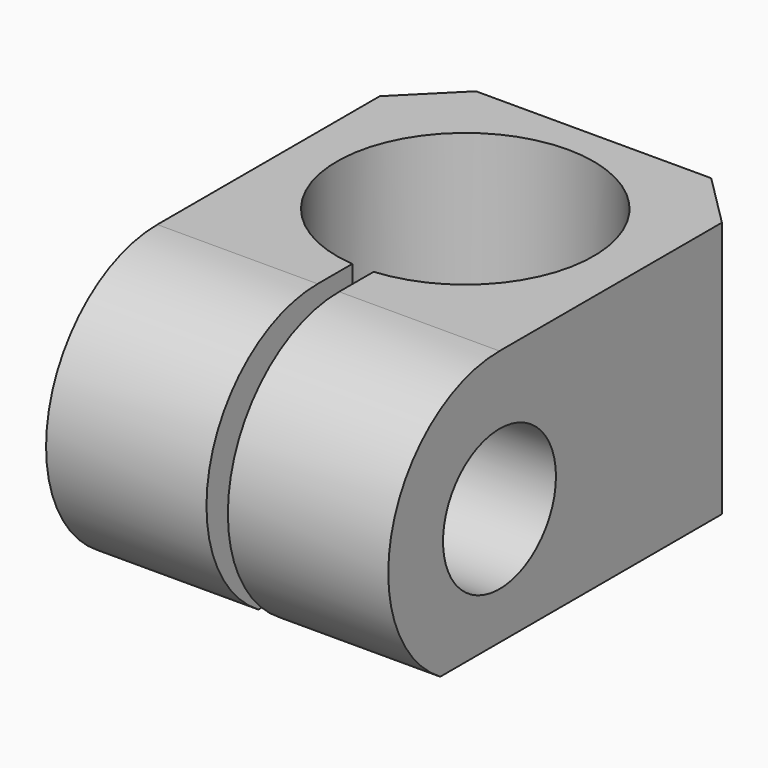
from build123d import *

# Parameters (mm, degrees)
F0_R     = 6.6
F2_DEPTH = 16
F3_R     = 10.5
F3_R_2   = 6.6
F4_DEPTH = 4
F5_DEPTH = 15
F6_SIZE  = 5


with BuildPart() as f2:
    # F0 (on Right) → F2 (new body, symmetric)
    with BuildSketch(Plane.YZ):
        with BuildLine():
            Line((31, 13), (0, 13))
            ThreePointArc((0, 13), (-12.489996, 3.605551), (-6.928203, -11))
            Line((-6.928203, -11), (31, -11))
            Line((31, -11), (31, 13))
        make_face()
        Circle(F0_R, mode=Mode.SUBTRACT)
    extrude(amount=F2_DEPTH, both=True)

    # F3 (on face) → F4 (cut)
    with BuildSketch(Plane(origin=(-16, 0, 0), x_dir=(0, -1, 0), z_dir=(-1, 0, 0))):
        Circle(F3_R)
        Circle(F3_R_2, mode=Mode.SUBTRACT)
    extrude(amount=-F4_DEPTH, mode=Mode.SUBTRACT)

    # F1 (on Top) → F5 (cut, symmetric)
    with BuildSketch(Plane.XY):
        with BuildLine():
            Line((-1, -13), (1, -13))
            Line((1, -13), (1, 4.041739))
            ThreePointArc((1, 4.041739), (0, 28), (-1, 4.041739))
            Line((-1, 4.041739), (-1, -13))
        make_face()
    extrude(amount=F5_DEPTH, both=True, mode=Mode.SUBTRACT)

    # F6
    f6_edges = [f2.edges().sort_by_distance(p)[0] for p in [
        (16, 31, 1),
        (-16, 31, 1),
    ]]
    chamfer(f6_edges, length=F6_SIZE)


solid = f2.part
